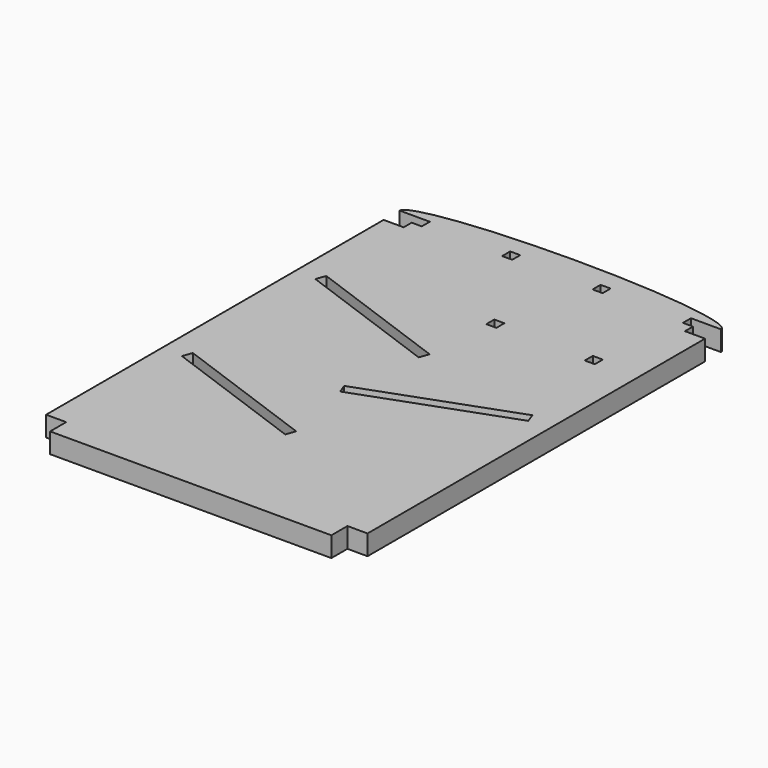
from build123d import *

# Parameters (mm, degrees)
F0_W      = 101.6
F0_H      = 146.05
F1_DEPTH  = 6.35
F3_DEPTH  = 6.35
F4_W      = 6.35
F4_H      = 6.35
F5_DEPTH  = 6.3510001
F6_W      = 3.175
F6_H      = 3.175
F7_DEPTH  = 6.3510001
F9_DEPTH  = 18.288
F11_DEPTH = 25.654
F13_DEPTH = 37.846


with BuildPart() as f1:
    # F0 (on Top) → F1 (new body)
    with BuildSketch(Plane.XY):
        with Locations((-18.788338281, 0.0990834087)):
            Rectangle(F0_W, F0_H)
    extrude(amount=F1_DEPTH)

    # F2 (on face) → F3 (join)
    with BuildSketch(Plane.XY.offset(6.35)):
        with BuildLine():
            add(Edge.make_bspline(
                [(-18.788338281, 79.4740834087), (-69.588338281, 79.4740834087), (-69.588338281, 73.1240834087)],
                knots=[4.7123889804, 4.7123889804, 4.7123889804, 6.2831853072, 6.2831853072, 6.2831853072], degree=2, weights=[1, 0.7071067812, 1]))
            Line((-69.588338281, 73.1240834087), (-18.788338281, 73.1240834087))
            Line((-18.788338281, 73.1240834087), (-18.788338281, 79.4740834087))
        make_face()
        with BuildLine():
            Line((-18.788338281, 79.4740834087), (-18.788338281, 73.1240834087))
            Line((-18.788338281, 73.1240834087), (32.011661719, 73.1240834087))
            add(Edge.make_bspline(
                [(32.011661719, 73.1240834087), (32.011661719, 79.4740834087), (-18.788338281, 79.4740834087)],
                knots=[3.1415926536, 3.1415926536, 3.1415926536, 4.7123889804, 4.7123889804, 4.7123889804], degree=2, weights=[1, 0.7071067812, 1]))
        make_face()
    extrude(amount=-F3_DEPTH)

    # F4 (on face) → F5 (cut, through all)
    with BuildSketch(Plane.XY.offset(6.35)):
        with Locations((-66.413338281, 69.9490834087)):
            Rectangle(F4_W, F4_H)
        with Locations((28.836661719, 69.9490834087)):
            Rectangle(F4_W, F4_H)
        with Locations((28.836661719, -69.7509165913)):
            Rectangle(F4_W, F4_H)
        with Locations((-66.413338281, -69.7509165913)):
            Rectangle(F4_W, F4_H)
    extrude(amount=-F5_DEPTH, mode=Mode.SUBTRACT)

    # F6 (on face) → F7 (cut, through all)
    with BuildSketch(Plane.XY.offset(6.35)):
        with Locations((-61.650838281, 71.5365834087)):
            Rectangle(F6_W, F6_H)
        with Locations((-33.075838281, 71.5365834087)):
            Rectangle(F6_W, F6_H)
        with Locations((-4.500838281, 71.5365834087)):
            Rectangle(F6_W, F6_H)
        with Locations((24.074161719, 71.5365834087)):
            Rectangle(F6_W, F6_H)
        with Locations((17.724161719, 40.6755834087)):
            Rectangle(F6_W, F6_H)
        with Locations((-13.390838281, 40.6755834087)):
            Rectangle(F6_W, F6_H)
    extrude(amount=-F7_DEPTH, mode=Mode.SUBTRACT)

    # F8 (on Top) → F9 (cut)
    with BuildSketch(Plane.XY):
        Polygon((-61.8984243259, 34.5415057816), (-62.984338281, 31.5579817106), (-16.9187266248, 14.7914702445), (-15.8328126697, 17.7749943155), align=None)
    extrude(amount=F9_DEPTH, mode=Mode.SUBTRACT)

    # F10 (on Top) → F11 (cut)
    with BuildSketch(Plane.XY):
        Polygon((24.321747764, 8.1776830323), (-21.7438638922, -8.5888284338), (-20.6579499371, -11.5723525048), (25.407661719, 5.1941589613), align=None)
    extrude(amount=F11_DEPTH, mode=Mode.SUBTRACT)

    # F12 (on Top) → F13 (cut)
    with BuildSketch(Plane.XY):
        Polygon((-15.8328126697, -34.9526511831), (-61.8984243259, -18.186139717), (-62.984338281, -21.169663788), (-16.9187266248, -37.9361752541), align=None)
    extrude(amount=F13_DEPTH, mode=Mode.SUBTRACT)


solid = f1.part
